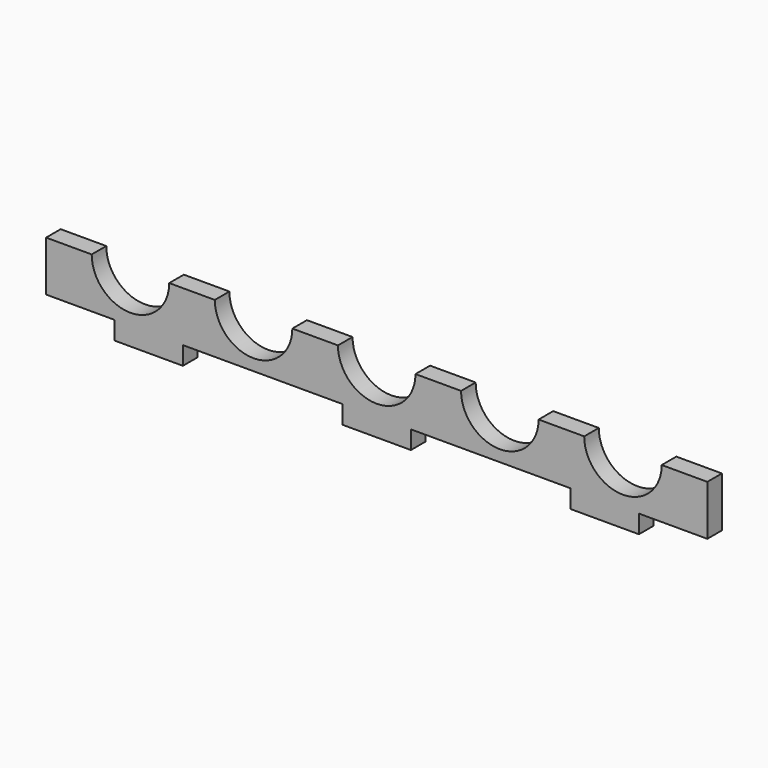
from build123d import *

# Parameters (mm, degrees)
F1_DEPTH = 4


with BuildPart() as f1:
    # F0 (on Front) → F1 (new body)
    with BuildSketch(Plane.XZ):
        with BuildLine():
            Line((-62.5, 7.5), (-72.5, 7.5))
            Line((-72.5, 7.5), (-72.5, -3.5))
            Line((-72.5, -3.5), (-57.5, -3.5))
            Line((-57.5, -3.5), (-57.5, -7.5))
            Line((-57.5, -7.5), (-42.5, -7.5))
            Line((-42.5, -7.5), (-42.5, -3.5))
            Line((-42.5, -3.5), (-7.5, -3.5))
            Line((-7.5, -3.5), (-7.5, -7.5))
            Line((-7.5, -7.5), (7.5, -7.5))
            Line((7.5, -7.5), (7.5, -3.5))
            Line((7.5, -3.5), (42.5, -3.5))
            Line((42.5, -3.5), (42.5, -7.5))
            Line((42.5, -7.5), (57.5, -7.5))
            Line((57.5, -7.5), (57.5, -3.5))
            Line((57.5, -3.5), (72.5, -3.5))
            Line((72.5, -3.5), (72.5, 7.5))
            Line((72.5, 7.5), (62.5, 7.5))
            ThreePointArc((62.5, 7.5), (54, -1), (45.5, 7.5))
            Line((45.5, 7.5), (35.5, 7.5))
            ThreePointArc((35.5, 7.5), (27, -1), (18.5, 7.5))
            Line((18.5, 7.5), (8.5, 7.5))
            ThreePointArc((8.5, 7.5), (0, -1), (-8.5, 7.5))
            Line((-8.5, 7.5), (-18.5, 7.5))
            ThreePointArc((-18.5, 7.5), (-27, -1), (-35.5, 7.5))
            Line((-35.5, 7.5), (-45.5, 7.5))
            ThreePointArc((-45.5, 7.5), (-54, -1), (-62.5, 7.5))
        make_face()
    extrude(amount=F1_DEPTH)


solid = f1.part
